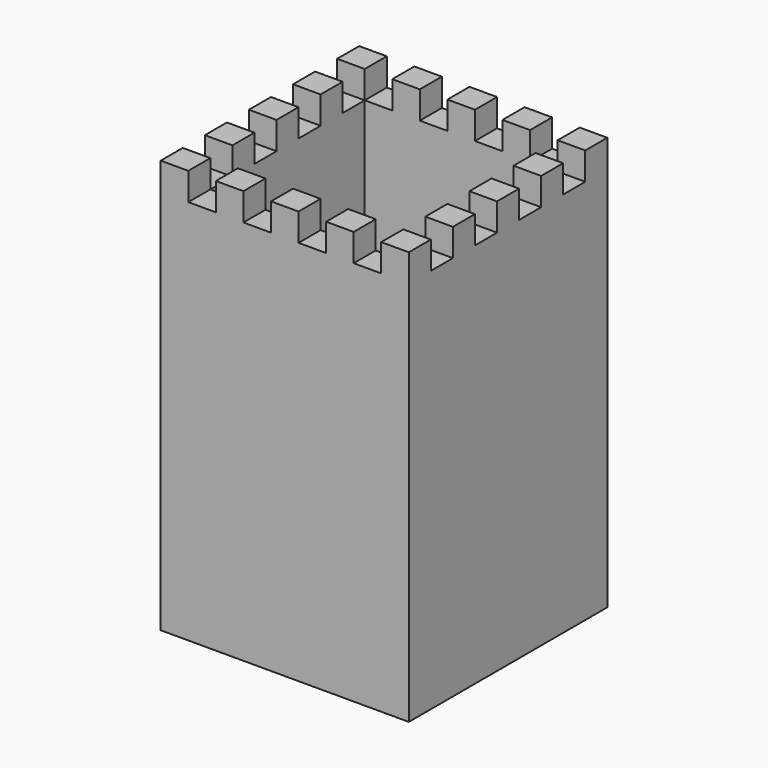
from build123d import *

# Parameters (mm, degrees)
BOX003_W      = 70
BOX003_H      = 70
BOX003_DEPTH  = 150
BOX001_W      = 10
BOX001_H      = 10
BOX001_DEPTH  = 14
ARRAY_X_COUNT = 5
ARRAY_X_PITCH = 20
ARRAY_Y_COUNT = 5
ARRAY_Y_PITCH = 20
BOX002_W      = 110
BOX002_H      = 110
BOX002_DEPTH  = 10
BOX_W         = 90
BOX_H         = 90
BOX_DEPTH     = 150


with BuildPart() as cube003:
    # Box003 → Box003 (new body)
    with BuildSketch(Plane(origin=(10, 10, 3), x_dir=(1, 0, 0), z_dir=(0, 0, 1))):
        with Locations((35, 35)):
            Rectangle(BOX003_W, BOX003_H)
    extrude(amount=BOX003_DEPTH)


with BuildPart() as array:
    # Box001 → Box001 (new body)
    with BuildSketch(Plane.XY):
        with Locations((5, 5)):
            Rectangle(BOX001_W, BOX001_H)
    extrude(amount=BOX001_DEPTH)

    # Array X: Array ×5


with BuildPart() as array_1:
    add(array.part)
    with Locations(*[(i * ARRAY_X_PITCH, 0, 0) for i in range(1, ARRAY_X_COUNT)]):
        add(array.part)

    # Array Y: Array ×5


with BuildPart() as array_2:
    add(array_1.part)
    with Locations(*[(0, i * ARRAY_Y_PITCH, 0) for i in range(1, ARRAY_Y_COUNT)]):
        add(array_1.part)


with BuildPart() as cut:
    # Box002 → Box002 (new body)
    with BuildSketch(Plane(origin=(-10, -9, 0), x_dir=(1, 0, 0), z_dir=(0, 0, 1))):
        with Locations((55, 55)):
            Rectangle(BOX002_W, BOX002_H)
    extrude(amount=BOX002_DEPTH)

    # Cut: cut Array
    add(array_2.part, mode=Mode.SUBTRACT)


with BuildPart() as cut_1:
    # Cut placement: moved
    add(cut.part.moved(Location((0, 0, 140))))


with BuildPart() as cut002:
    # Box → Box (new body)
    with BuildSketch(Plane.XY):
        with Locations((45, 45)):
            Rectangle(BOX_W, BOX_H)
    extrude(amount=BOX_DEPTH)

    # Cut001: cut Cut
    add(cut_1.part, mode=Mode.SUBTRACT)

    # Cut002: cut Cube003
    add(cube003.part, mode=Mode.SUBTRACT)


solid = cut002.part
